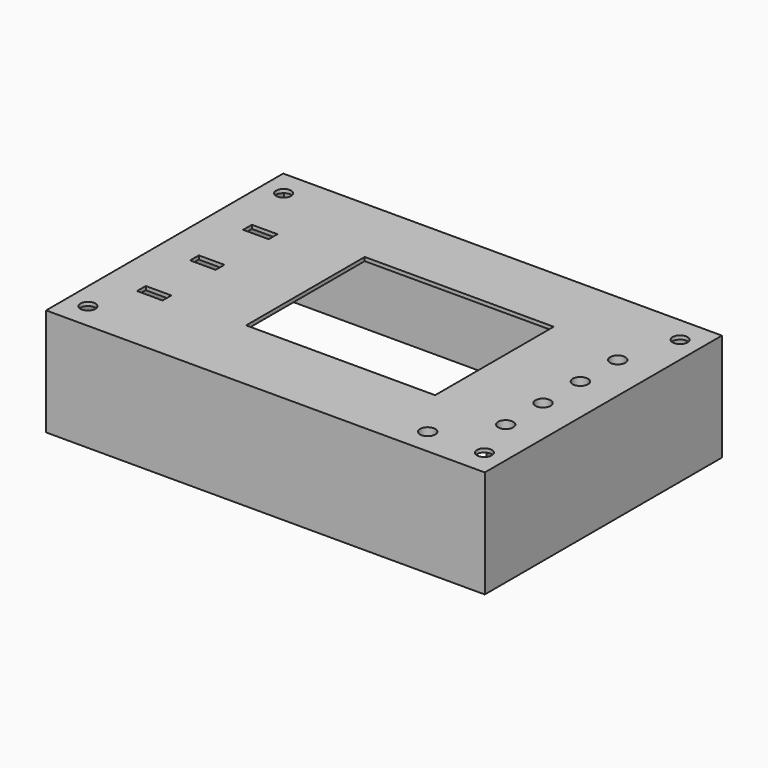
from build123d import *

# Parameters (mm, degrees)
SKETCH_W        = 118.4
SKETCH_H        = 80
PAD_DEPTH       = 29
THICKNESS_T     = -1
SKETCH001_R     = 2
POCKET_DEPTH    = 29.001
SKETCH002_W     = 51
SKETCH002_H     = 40
POCKET001_DEPTH = 29.001
SKETCH003_R     = 2.05
SKETCH003_W     = 6.9
SKETCH003_H     = 2.95
POCKET002_DEPTH = 29.001
SKETCH004_R     = 4.05
SKETCH004_R_2   = 2.05
PAD001_DEPTH    = 12


with BuildPart() as part:
    # Sketch → Pad (new body)
    with BuildSketch(Plane.XY):
        Rectangle(SKETCH_W, SKETCH_H)
    extrude(amount=PAD_DEPTH)

    # Thickness
    thickness_openings = [part.faces().sort_by_distance(p)[0] for p in [
        (0, 0, 0),
    ]]
    offset(amount=THICKNESS_T, openings=thickness_openings)

    # Sketch001 → Pocket (cut, through all)
    with BuildSketch(Plane.XY):
        with Locations((53.5, 33)):
            Circle(SKETCH001_R)
        with Locations((53.5, -33)):
            Circle(SKETCH001_R)
        with Locations((-53.5, -33)):
            Circle(SKETCH001_R)
        with Locations((-53.5, 33)):
            Circle(SKETCH001_R)
    extrude(amount=POCKET_DEPTH, mode=Mode.SUBTRACT)

    # Sketch002 → Pocket001 (cut, through all)
    with BuildSketch(Plane.XY):
        with Locations((3.5, 1)):
            Rectangle(SKETCH002_W, SKETCH002_H)
    extrude(amount=POCKET001_DEPTH, mode=Mode.SUBTRACT)

    # Sketch003 → Pocket002 (cut, through all)
    with BuildSketch(Plane.XY):
        with Locations((49, 17.6)):
            Circle(SKETCH003_R)
        with Locations((49, 5)):
            Circle(SKETCH003_R)
        with Locations((49, -7.6)):
            Circle(SKETCH003_R)
        with Locations((49, -20.2)):
            Circle(SKETCH003_R)
        with Locations((38.2, -33)):
            Circle(SKETCH003_R)
        with Locations((-46.3, 16.14)):
            Rectangle(SKETCH003_W, SKETCH003_H)
        with Locations((-46.3, -1.76)):
            Rectangle(SKETCH003_W, SKETCH003_H)
        with Locations((-46.3, -19.66)):
            Rectangle(SKETCH003_W, SKETCH003_H)
    extrude(amount=POCKET002_DEPTH, mode=Mode.SUBTRACT)

    # Sketch004 (on DatumPlane) → Pad001 (join)
    with BuildSketch(Plane.XY.offset(28)):
        with Locations((49, 17.6)):
            Circle(SKETCH004_R)
        with Locations((49, 17.6)):
            Circle(SKETCH004_R_2, mode=Mode.SUBTRACT)
        with Locations((49, 5)):
            Circle(SKETCH004_R)
        with Locations((49, 5)):
            Circle(SKETCH004_R_2, mode=Mode.SUBTRACT)
        with Locations((49, -7.6)):
            Circle(SKETCH004_R)
        with Locations((49, -7.6)):
            Circle(SKETCH004_R_2, mode=Mode.SUBTRACT)
        with Locations((49, -20.2)):
            Circle(SKETCH004_R)
        with Locations((49, -20.2)):
            Circle(SKETCH004_R_2, mode=Mode.SUBTRACT)
        with Locations((38.2, -33)):
            Circle(SKETCH004_R)
        with Locations((38.2, -33)):
            Circle(SKETCH004_R_2, mode=Mode.SUBTRACT)
    extrude(amount=-PAD001_DEPTH)


solid = part.part
